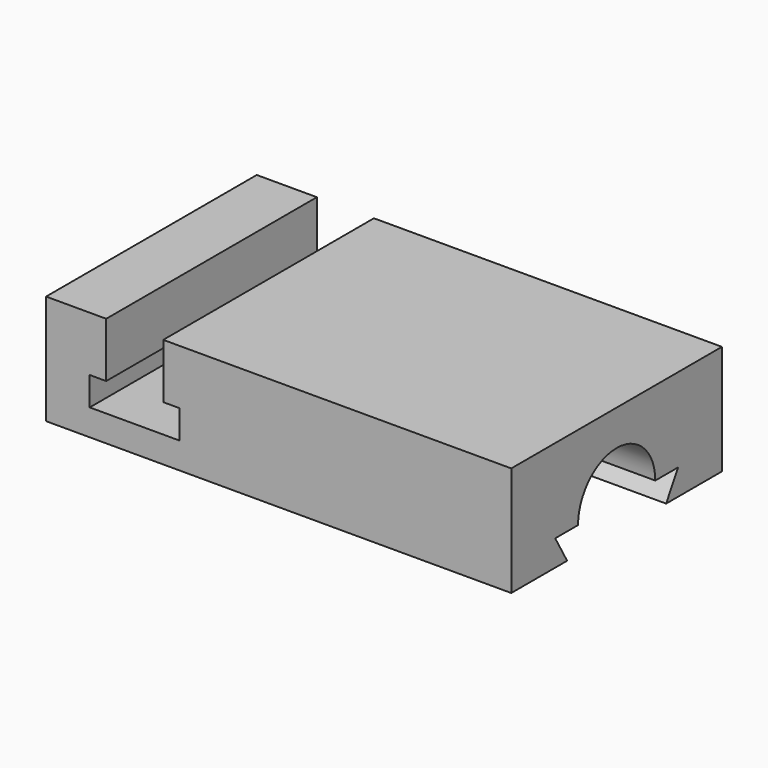
from build123d import *

# Parameters (mm, degrees)
F0_W     = 134.62
F0_H     = 76.2
F1_DEPTH = 15.875
F3_DEPTH = 76.201
F5_DEPTH = 83.5152


with BuildPart() as f1:
    # F0 (on Top) → F1 (new body, symmetric)
    with BuildSketch(Plane.XY):
        Rectangle(F0_W, F0_H)
    extrude(amount=F1_DEPTH, both=True)

    # F2 (on face) → F3 (cut, through all)
    with BuildSketch(Plane.XZ.offset(38.1)):
        Polygon((-33.401, 15.875), (-49.911, 15.875), (-49.911, 0), (-54.6735, 0), (-54.6735, -8.255), (-28.6385, -8.255), (-28.6385, 0), (-33.401, 0), align=None)
    extrude(amount=-F3_DEPTH, mode=Mode.SUBTRACT)

    # F4 (on face) → F5 (cut)
    with BuildSketch(Plane.YZ.offset(67.31)):
        with BuildLine():
            ThreePointArc((13.990774, -8.396005), (0.020774, 5.573995), (-13.949226, -8.396005))
            Line((-13.949226, -8.396005), (13.990774, -8.396005))
        make_face()
        Polygon((-13.949226, -8.396005), (-22.204226, -8.396005), (-17.886226, -15.875), (17.927774, -15.875), (22.245774, -8.396005), (13.990774, -8.396005), align=None)
    extrude(amount=-F5_DEPTH, mode=Mode.SUBTRACT)


with BuildPart() as f6_1:
    # F6: copy of F1
    add(f1.part)


solid = f1.part
